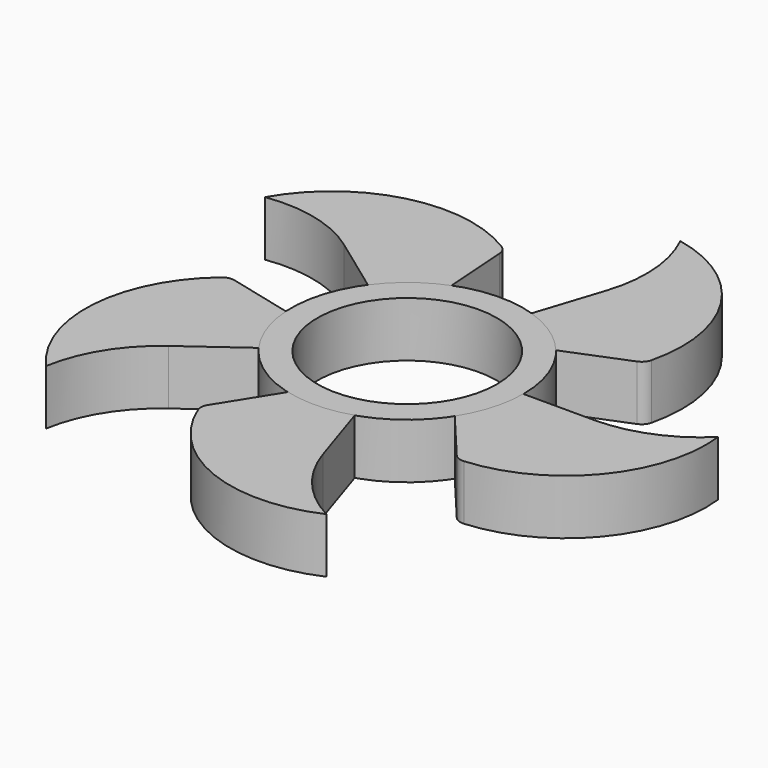
from build123d import *

# Parameters (mm, degrees)
F0_R     = 14.478
F0_R_2   = 11.176
F1_DEPTH = 3.429
F3_DEPTH = 3.429
F4_R     = 1.5875
F5_COUNT = 5


with BuildPart() as f1:
    # F0 (on Top) → F1 (new body, symmetric)
    with BuildSketch(Plane.XY):
        Circle(F0_R)
        Circle(F0_R_2, mode=Mode.SUBTRACT)
    extrude(amount=F1_DEPTH, both=True)


with BuildPart() as f3:
    # F2 (on Top) → F3 (new body, symmetric)
    with BuildSketch(Plane.XY):
        with BuildLine():
            Line((23.2156, 0), (14.451853, 0))
            ThreePointArc((14.451853, 0), (13.868273, -4.065349), (12.164663, -7.802373))
            Line((12.164663, -7.802373), (17.960679, -14.709796))
            ThreePointArc((17.960679, -14.709796), (30.718498, -8.700367), (34.919331, 4.761735))
            ThreePointArc((34.919331, 4.761735), (29.533263, 1.235998), (23.2156, 0))
        make_face()
    extrude(amount=F3_DEPTH, both=True)

    # F4
    f4_edges = [f3.edges().sort_by_distance(p)[0] for p in [
        (17.960679, -14.709796, 0),
    ]]
    fillet(f4_edges, radius=F4_R)


with BuildPart() as f5_1:
    # F5: instance of F3
    add(f3.part.rotate(Axis((0, 0, -3.429), (0, 0, -1)), 1 * 360 / F5_COUNT))


with BuildPart() as f5_2:
    # F5: instance of F3
    add(f3.part.rotate(Axis((0, 0, -3.429), (0, 0, -1)), 2 * 360 / F5_COUNT))


with BuildPart() as f5_3:
    # F5: instance of F3
    add(f3.part.rotate(Axis((0, 0, -3.429), (0, 0, -1)), 3 * 360 / F5_COUNT))


with BuildPart() as f5_4:
    # F5: instance of F3
    add(f3.part.rotate(Axis((0, 0, -3.429), (0, 0, -1)), 4 * 360 / F5_COUNT))


solid = Compound([f1.part, f3.part, f5_1.part, f5_2.part, f5_3.part, f5_4.part])
